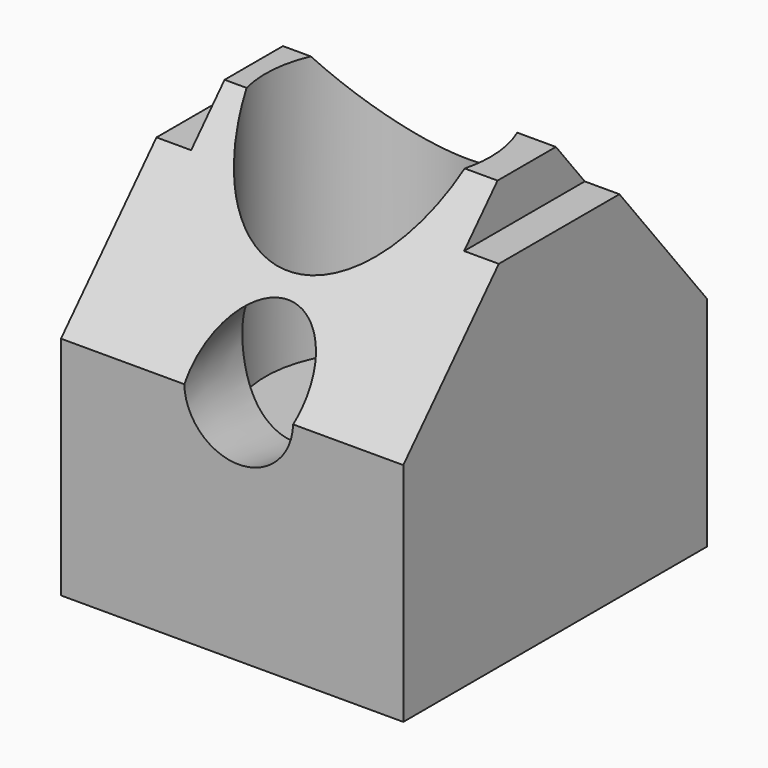
from build123d import *

# Parameters (mm, degrees)
F0_W      = 193.0696666241
F0_H      = 200.0828683376
F1_DEPTH  = 214.122
F2_W      = 153.9536677301
F2_H      = 175.006001106
F3_DEPTH  = 25.4
F4_R      = 63.5
F5_DEPTH  = 150.368
F6_R      = 30.7008006584
F7_DEPTH  = 70.612
F7_TAPER  = -10
F9_DEPTH  = 366.776
F11_DEPTH = 193.0706666241


with BuildPart() as f1:
    # F0 (on Front) → F1 (new body)
    with BuildSketch(Plane.XZ):
        with Locations((-3.6960989237, -37.8023684025)):
            Rectangle(F0_W, F0_H)
    extrude(amount=F1_DEPTH)

    # F2 (on face) → F3 (join)
    with BuildSketch(Plane.XY.offset(62.2390657663)):
        with Locations((-3.6960989237, -107.061)):
            Rectangle(F2_W, F2_H)
    extrude(amount=F3_DEPTH)

    # F4 (on face) → F5 (cut)
    with BuildSketch(Plane.XY.offset(87.6390657663)):
        with Locations((-6.7443153821, -107.4839606881)):
            Circle(F4_R)
    extrude(amount=-F5_DEPTH, mode=Mode.SUBTRACT)

    # F6 (on face) → F7 (cut)
    with BuildSketch(Plane.XZ.offset(214.122)):
        with Locations((0, -9.5111001283)):
            Circle(F6_R)
    extrude(amount=-F7_DEPTH, taper=F7_TAPER, mode=Mode.SUBTRACT)

    # F8 (on face) → F9 (cut)
    with BuildSketch(Plane.YZ.offset(92.8387343884)):
        Polygon((-214.122, 62.2390657663), (-214.122, -10.3267068043), (-90.1689380407, 123.2789084315), (-194.4728940725, 123.2789084315), align=None)
    extrude(amount=-F9_DEPTH, mode=Mode.SUBTRACT)

    # F10 (on face) → F11 (cut, through all)
    with BuildSketch(Plane.YZ.offset(92.8387343884)):
        Polygon((-93.462087214, 101.8149778247), (0, -14.7983925417), (0, 62.2390657663), (-34.7359292209, 118.5938715935), align=None)
    extrude(amount=-F11_DEPTH, mode=Mode.SUBTRACT)


solid = f1.part
